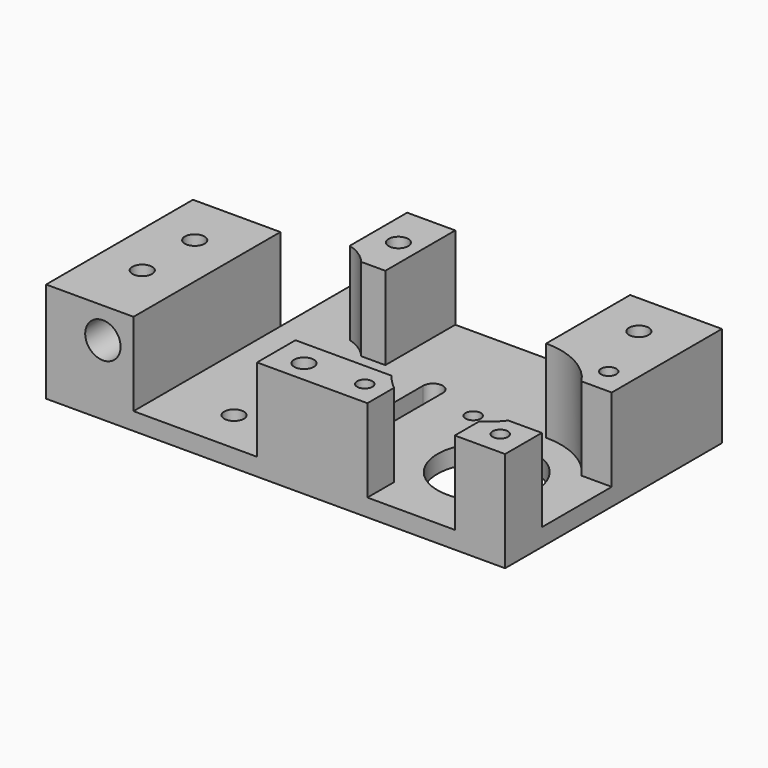
from build123d import *

# Parameters (mm, degrees)
SKETCH_R        = 2.25
SKETCH_R_2      = 11.25
SKETCH_R_3      = 1.75
PAD_DEPTH       = 23
POCKET_DEPTH    = 19
SKETCH004_R     = 2.25
POCKET003_DEPTH = 10
SKETCH005_R     = 4.05
POCKET004_DEPTH = 12
SKETCH006_R     = 3.75
POCKET005_DEPTH = 10


with BuildPart() as part:
    # Sketch → Pad (new body)
    with BuildSketch(Plane.XY):
        Polygon((0, 0), (105, 0), (105, 62), (20, 62), (20, 42), (0, 42), align=None)
        with Locations((35, 10)):
            Circle(SKETCH_R, mode=Mode.SUBTRACT)
        with Locations((30, 35)):
            Circle(SKETCH_R, mode=Mode.SUBTRACT)
        with Locations((84, 21)):
            Circle(SKETCH_R_2, mode=Mode.SUBTRACT)
        with Locations((68.5, 36.5)):
            Circle(SKETCH_R_3, mode=Mode.SUBTRACT)
        with Locations((99.5, 36.5)):
            Circle(SKETCH_R_3, mode=Mode.SUBTRACT)
        with Locations((68.5, 5.5)):
            Circle(SKETCH_R_3, mode=Mode.SUBTRACT)
        with Locations((99.5, 5.5)):
            Circle(SKETCH_R_3, mode=Mode.SUBTRACT)
        with Locations((10, 30)):
            Circle(SKETCH_R, mode=Mode.SUBTRACT)
        with Locations((10, 15)):
            Circle(SKETCH_R, mode=Mode.SUBTRACT)
        with Locations((39, 52)):
            Circle(SKETCH_R, mode=Mode.SUBTRACT)
        with Locations((94, 52)):
            Circle(SKETCH_R, mode=Mode.SUBTRACT)
        with BuildLine():
            Line((58.75, 25), (58.75, 40))
            ThreePointArc((58.75, 40), (56.5, 42.25), (54.25, 40))
            Line((54.25, 25), (54.25, 40))
            ThreePointArc((54.25, 25), (56.5, 22.75), (58.75, 25))
        make_face(mode=Mode.SUBTRACT)
    extrude(amount=PAD_DEPTH)

    # Sketch001 → Pocket (cut)
    with BuildSketch(Plane.XY.offset(23)):
        with BuildLine():
            ThreePointArc((38.485281, 42), (36.015595, 44.209377), (32.999996, 45.583006))
            Line((32.999996, 67), (32.999996, 45.583006))
            Line((20, 67), (32.999996, 67))
            Line((20, -1), (20, 67))
            Line((20, -1), (48.252269, -1))
            Line((48.252269, 11), (48.252269, -1))
            Line((48.252269, 11), (70.252269, 11))
            ThreePointArc((70.252269, 11), (71.759618, 9.202833), (73.499996, 7.630258))
            Line((73.499996, 7.630258), (73.499996, -1))
            Line((73.499996, -1), (93.499996, -1))
            Line((93.499996, -1), (93.499996, 6.902128))
            ThreePointArc((93.499996, 6.902128), (95.574295, 8.548671), (97.367695, 10.497399))
            Line((105.499996, 10.497399), (97.367695, 10.497399))
            Line((105.499996, 30.497399), (105.499996, 10.497399))
            Line((98.099621, 30.497399), (105.499996, 30.497399))
            ThreePointArc((98.099621, 30.497399), (91.98574, 36.007594), (83.999996, 38))
            Line((83.999996, 38), (83.999996, 67))
            Line((83.999996, 67), (43.999996, 67))
            Line((43.999996, 67), (43.999996, 42))
            Line((38.485281, 42), (43.999996, 42))
        make_face()
    extrude(amount=-POCKET_DEPTH, mode=Mode.SUBTRACT)

    # Sketch004 → Pocket003 (cut)
    with BuildSketch(Plane.XY.offset(23)):
        with Locations((55, 5)):
            Circle(SKETCH004_R)
    extrude(amount=-POCKET003_DEPTH, mode=Mode.SUBTRACT)

    # Sketch005 → Pocket004 (cut)
    with BuildSketch(Plane.XZ):
        with Locations((13, 16)):
            Circle(SKETCH005_R)
    extrude(amount=-POCKET004_DEPTH, mode=Mode.SUBTRACT)

    # Sketch006 → Pocket005 (cut)
    with BuildSketch(Plane(origin=(0, 0, 0), x_dir=(1, 0, 0), z_dir=(0, 0, -1))):
        with Locations((10, -15)):
            Circle(SKETCH006_R)
        with Locations((10, -30)):
            Circle(SKETCH006_R)
        with Locations((39, -52)):
            Circle(SKETCH006_R)
        with Locations((94, -52)):
            Circle(SKETCH006_R)
    extrude(amount=-POCKET005_DEPTH, mode=Mode.SUBTRACT)


solid = part.part
